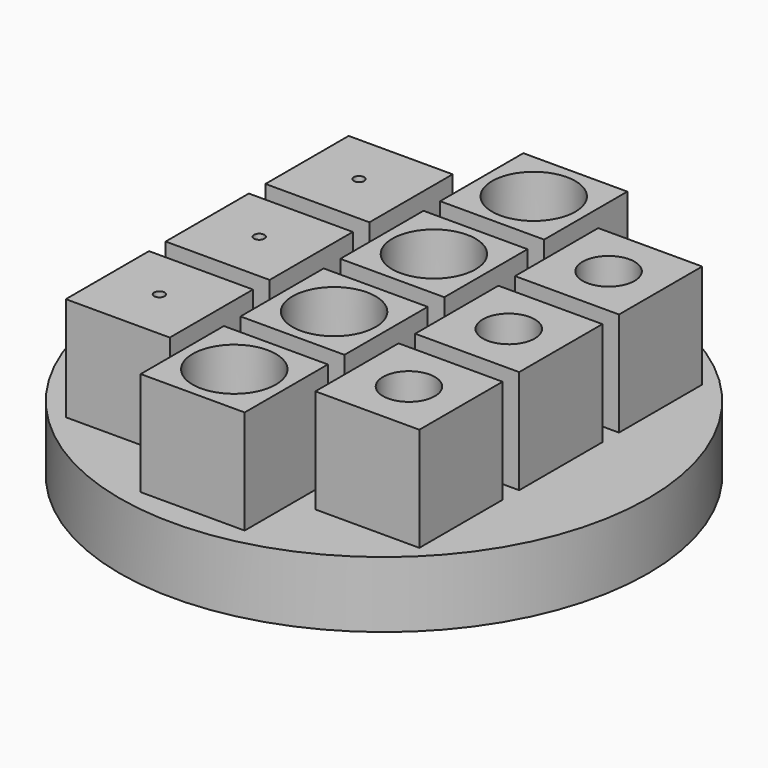
from build123d import *

# Parameters (mm, degrees)
F0_R     = 25.4
F0_W     = 10
F0_H     = 10
F0_R_2   = 0.5
F0_R_3   = 4
F0_R_4   = 2.5
F1_DEPTH = 6.35
F2_DEPTH = 10


with BuildPart() as f1:
    # F0 (on Top) → F1 (new body)
    with BuildSketch(Plane.XY):
        Circle(F0_R)
        with Locations((0, -18)):
            Rectangle(F0_W, F0_H, mode=Mode.SUBTRACT)
        with Locations((-12, -12)):
            Rectangle(F0_W, F0_H, mode=Mode.SUBTRACT)
        with Locations((-12, 0)):
            Rectangle(F0_W, F0_H, mode=Mode.SUBTRACT)
        with Locations((0, -6)):
            Rectangle(F0_W, F0_H, mode=Mode.SUBTRACT)
        with Locations((12, -12)):
            Rectangle(F0_W, F0_H, mode=Mode.SUBTRACT)
        with Locations((12, 0)):
            Rectangle(F0_W, F0_H, mode=Mode.SUBTRACT)
        with Locations((0, 6)):
            Rectangle(F0_W, F0_H, mode=Mode.SUBTRACT)
        with Locations((-12, 12)):
            Rectangle(F0_W, F0_H, mode=Mode.SUBTRACT)
        with Locations((0, 18)):
            Rectangle(F0_W, F0_H, mode=Mode.SUBTRACT)
        with Locations((12, 12)):
            Rectangle(F0_W, F0_H, mode=Mode.SUBTRACT)
        with Locations((-12, -12)):
            Rectangle(F0_W, F0_H)
        with Locations((-12, -12)):
            Circle(F0_R_2, mode=Mode.SUBTRACT)
        with Locations((-12, 0)):
            Rectangle(F0_W, F0_H)
        with Locations((-12, 0)):
            Circle(F0_R_2, mode=Mode.SUBTRACT)
        with Locations((-12, 12)):
            Rectangle(F0_W, F0_H)
        with Locations((-12, 12)):
            Circle(F0_R_2, mode=Mode.SUBTRACT)
        with Locations((0, 6)):
            Rectangle(F0_W, F0_H)
        with Locations((0, 6)):
            Circle(F0_R_3, mode=Mode.SUBTRACT)
        with Locations((0, -6)):
            Rectangle(F0_W, F0_H)
        with Locations((0, -6)):
            Circle(F0_R_3, mode=Mode.SUBTRACT)
        with Locations((0, -18)):
            Rectangle(F0_W, F0_H)
        with Locations((0, -18)):
            Circle(F0_R_3, mode=Mode.SUBTRACT)
        with Locations((0, 18)):
            Rectangle(F0_W, F0_H)
        with Locations((0, 18)):
            Circle(F0_R_3, mode=Mode.SUBTRACT)
        with Locations((12, 12)):
            Rectangle(F0_W, F0_H)
        with Locations((12, 12)):
            Circle(F0_R_4, mode=Mode.SUBTRACT)
        with Locations((12, 0)):
            Rectangle(F0_W, F0_H)
        with Locations((12, 0)):
            Circle(F0_R_4, mode=Mode.SUBTRACT)
        with Locations((12, -12)):
            Rectangle(F0_W, F0_H)
        with Locations((12, -12)):
            Circle(F0_R_4, mode=Mode.SUBTRACT)
        with Locations((-12, -12)):
            Circle(F0_R_2)
        with Locations((-12, 0)):
            Circle(F0_R_2)
        with Locations((-12, 12)):
            Circle(F0_R_2)
        with Locations((0, 18)):
            Circle(F0_R_3)
        with Locations((0, 6)):
            Circle(F0_R_3)
        with Locations((0, -18)):
            Circle(F0_R_3)
        with Locations((12, -12)):
            Circle(F0_R_4)
        with Locations((12, 0)):
            Circle(F0_R_4)
        with Locations((12, 12)):
            Circle(F0_R_4)
        with Locations((0, -6)):
            Circle(F0_R_3)
    extrude(amount=-F1_DEPTH)


with BuildPart() as f2:
    # F0 (on Top) → F2 (new body)
    with BuildSketch(Plane.XY):
        with Locations((-12, 12)):
            Rectangle(F0_W, F0_H)
        with Locations((-12, 12)):
            Circle(F0_R_2, mode=Mode.SUBTRACT)
        with Locations((0, 18)):
            Rectangle(F0_W, F0_H)
        with Locations((0, 18)):
            Circle(F0_R_3, mode=Mode.SUBTRACT)
        with Locations((12, 12)):
            Rectangle(F0_W, F0_H)
        with Locations((12, 12)):
            Circle(F0_R_4, mode=Mode.SUBTRACT)
        with Locations((0, 6)):
            Rectangle(F0_W, F0_H)
        with Locations((0, 6)):
            Circle(F0_R_3, mode=Mode.SUBTRACT)
        with Locations((-12, 0)):
            Rectangle(F0_W, F0_H)
        with Locations((-12, 0)):
            Circle(F0_R_2, mode=Mode.SUBTRACT)
        with Locations((-12, -12)):
            Rectangle(F0_W, F0_H)
        with Locations((-12, -12)):
            Circle(F0_R_2, mode=Mode.SUBTRACT)
        with Locations((0, -6)):
            Rectangle(F0_W, F0_H)
        with Locations((0, -6)):
            Circle(F0_R_3, mode=Mode.SUBTRACT)
        with Locations((0, -18)):
            Rectangle(F0_W, F0_H)
        with Locations((0, -18)):
            Circle(F0_R_3, mode=Mode.SUBTRACT)
        with Locations((12, 0)):
            Rectangle(F0_W, F0_H)
        with Locations((12, 0)):
            Circle(F0_R_4, mode=Mode.SUBTRACT)
        with Locations((12, -12)):
            Rectangle(F0_W, F0_H)
        with Locations((12, -12)):
            Circle(F0_R_4, mode=Mode.SUBTRACT)
    extrude(amount=F2_DEPTH)


solid = Compound([f1.part, f2.part])
